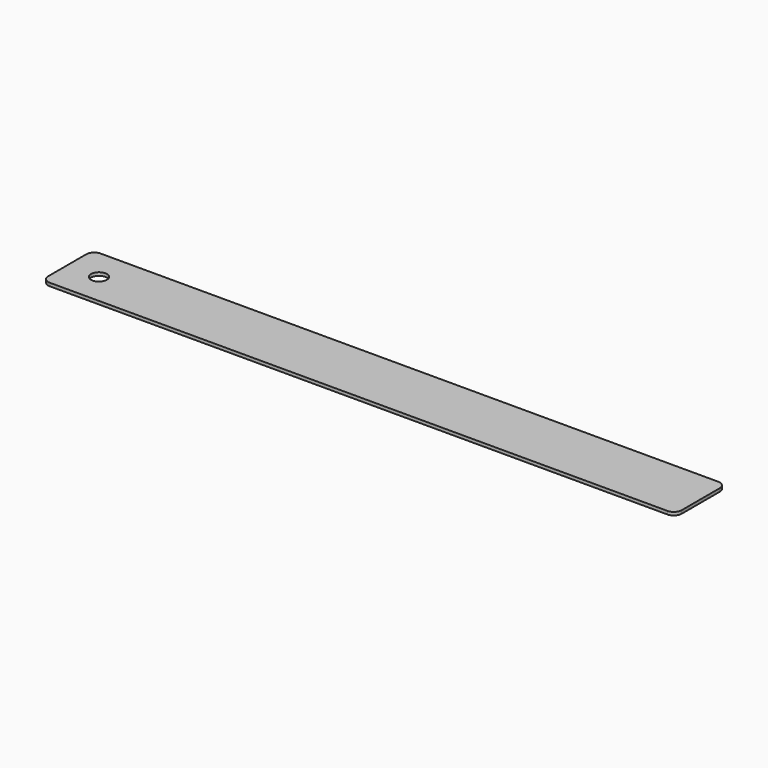
from build123d import *

# Parameters (mm, degrees)
F0_W     = 200
F0_H     = 20
F1_DEPTH = 1
F3_D     = 5
F4_R     = 2.5


with BuildPart() as f1:
    # F0 (on Top) → F1 (new body)
    with BuildSketch(Plane.XY):
        with Locations((100, 10)):
            Rectangle(F0_W, F0_H)
    extrude(amount=F1_DEPTH)

    # F3 (through all)
    with Locations(Plane.XY.offset(1)):
        with Locations((10, 10)):
            Hole(F3_D / 2)

    # F4
    f4_edges = [f1.edges().sort_by_distance(p)[0] for p in [
        (0, 20, 0.5),
        (0, 0, 0.5),
        (200, 0, 0.5),
        (200, 20, 0.5),
    ]]
    fillet(f4_edges, radius=F4_R)


solid = f1.part
